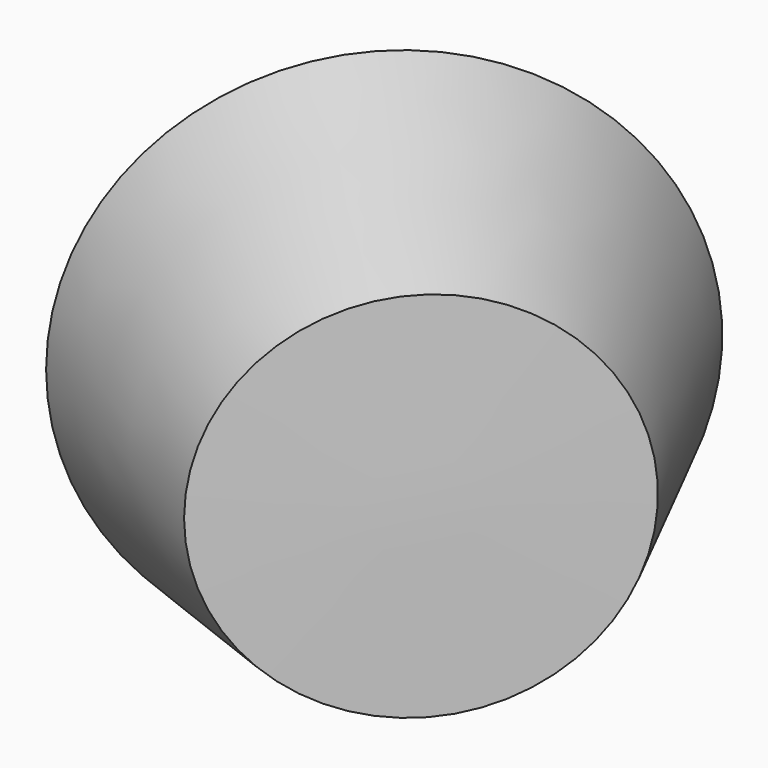
from build123d import *

# Parameters (mm, degrees)
F2_T = -2.54


with BuildPart() as f1:
    # F0 (on Top) → F1 (revolve)
    with BuildSketch(Plane.XY):
        Polygon((-20.4190313816, -19.6307562292), (0, 0), (-27.9774115412, 28.0088085278), (-57.1109168231, 0), align=None)
    revolve(axis=Axis((-13.9887057706, 14.0044042639, 0), (0.7067101257, -0.7075032143, 0)))

    # F2
    f2_openings = [f1.faces().sort_by_distance(p)[0] for p in [
        (-13.956678, 42.559845, 0),
    ]]
    offset(amount=F2_T, openings=f2_openings)


solid = f1.part
